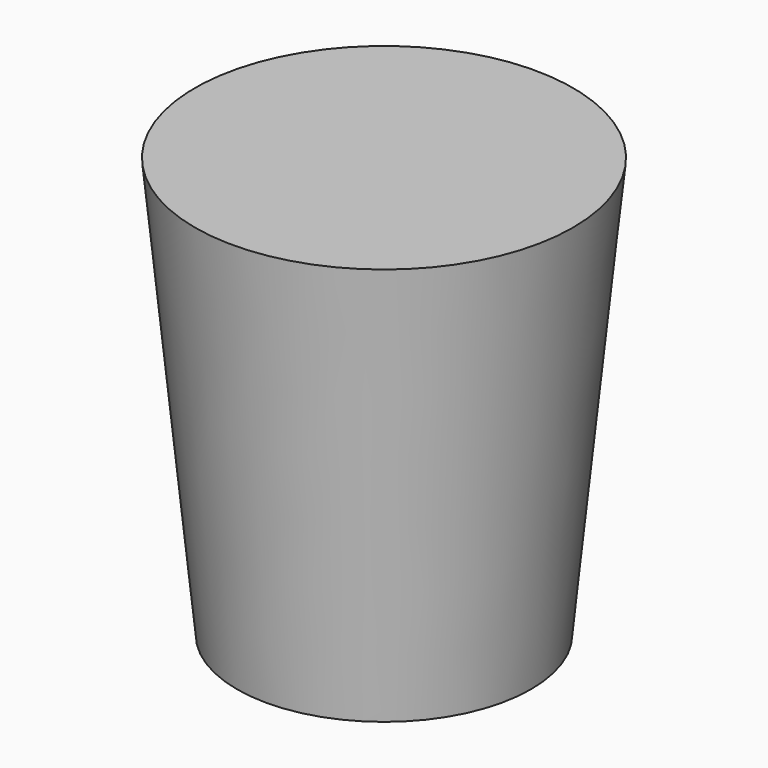
from build123d import *


with BuildPart() as part:
    # Sketch → Revolution (revolve)
    with BuildSketch(Plane.XZ):
        Polygon((0, 0), (21, 0), (27, 60), (0, 60), align=None)
    revolve(axis=Axis((0, 0, 0), (0, 0, 1)))


solid = part.part
